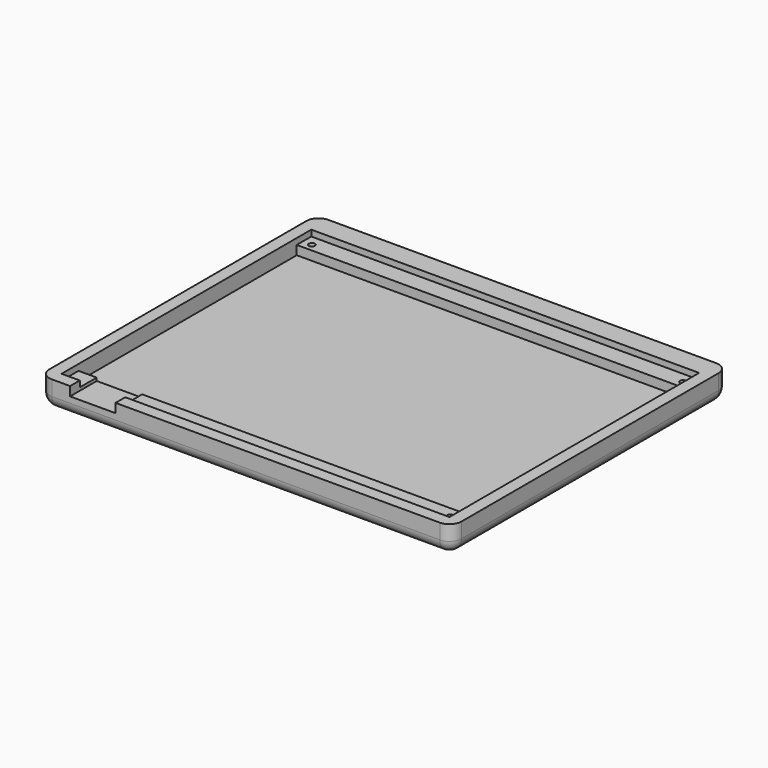
from build123d import *

# Parameters (mm, degrees)
F0_W      = 107.95
F0_H      = 90.4875
F1_DEPTH  = 7.14375
F2_W      = 101.6
F2_H      = 81.75625
F3_DEPTH  = 3.96875
F4_W      = 101.6
F4_H      = 4.7625
F4_H_2    = 5.55625
F5_DEPTH  = 2.38125
F6_W      = 11.90625
F6_H      = 2.38125
F7_DEPTH  = 25.4
F8_R      = 0.79375
F9_DEPTH  = 25.4
F10_R     = 3.175
F11_R     = 1.5875
F11_R_2   = 0.79375
F12_DEPTH = 1.5875


with BuildPart() as f1:
    # F0 (on Top) → F1 (new body)
    with BuildSketch(Plane.XY):
        Rectangle(F0_W, F0_H)
    extrude(amount=F1_DEPTH)

    # F2 (on face) → F3 (cut)
    with BuildSketch(Plane.XY.offset(7.14375)):
        with Locations((0, -1.190625)):
            Rectangle(F2_W, F2_H)
    extrude(amount=-F3_DEPTH, mode=Mode.SUBTRACT)

    # F4 (on face) → F5 (join)
    with BuildSketch(Plane.XY.offset(3.175)):
        with Locations((0, 37.30625)):
            Rectangle(F4_W, F4_H)
        with Locations((0, -39.290625)):
            Rectangle(F4_W, F4_H_2)
    extrude(amount=F5_DEPTH)

    # F6 (on face) → F7 (cut)
    with BuildSketch(Plane.XZ.offset(45.24375)):
        with Locations((-40.084375, 5.953125)):
            Rectangle(F6_W, F6_H)
    extrude(amount=-F7_DEPTH, mode=Mode.SUBTRACT)

    # F8 (on face) → F9 (cut)
    with BuildSketch(Plane.XY.offset(5.55625)):
        with Locations((48.815625, 36.909375)):
            Circle(F8_R)
        with Locations((48.815625, -39.290625)):
            Circle(F8_R)
        with Locations((-48.41875, 36.909375)):
            Circle(F8_R)
    extrude(amount=-F9_DEPTH, mode=Mode.SUBTRACT)

    # F10
    f10_edges = [f1.edges().sort_by_distance(p)[0] for p in [
        (53.975, -45.24375, 3.571875),
        (53.975, 45.24375, 3.571875),
        (-53.975, 45.24375, 3.571875),
        (-53.975, -45.24375, 3.571875),
        (0, -45.24375, 0),
        (-53.975, 0, 0),
        (0, 45.24375, 0),
        (53.975, 0, 0),
    ]]
    fillet(f10_edges, radius=F10_R)

    # F11 (on face) → F12 (cut)
    with BuildSketch(Plane(origin=(0, 0, 0), x_dir=(1, 0, 0), z_dir=(0, 0, -1))):
        with Locations((-48.41875, -36.909375)):
            Circle(F11_R)
        with Locations((-48.41875, -36.909375)):
            Circle(F11_R_2, mode=Mode.SUBTRACT)
        with Locations((48.815625, -36.909375)):
            Circle(F11_R)
        with Locations((48.815625, -36.909375)):
            Circle(F11_R_2, mode=Mode.SUBTRACT)
        with Locations((48.815625, 39.290625)):
            Circle(F11_R)
        with Locations((48.815625, 39.290625)):
            Circle(F11_R_2, mode=Mode.SUBTRACT)
    extrude(amount=-F12_DEPTH, mode=Mode.SUBTRACT)


solid = f1.part
